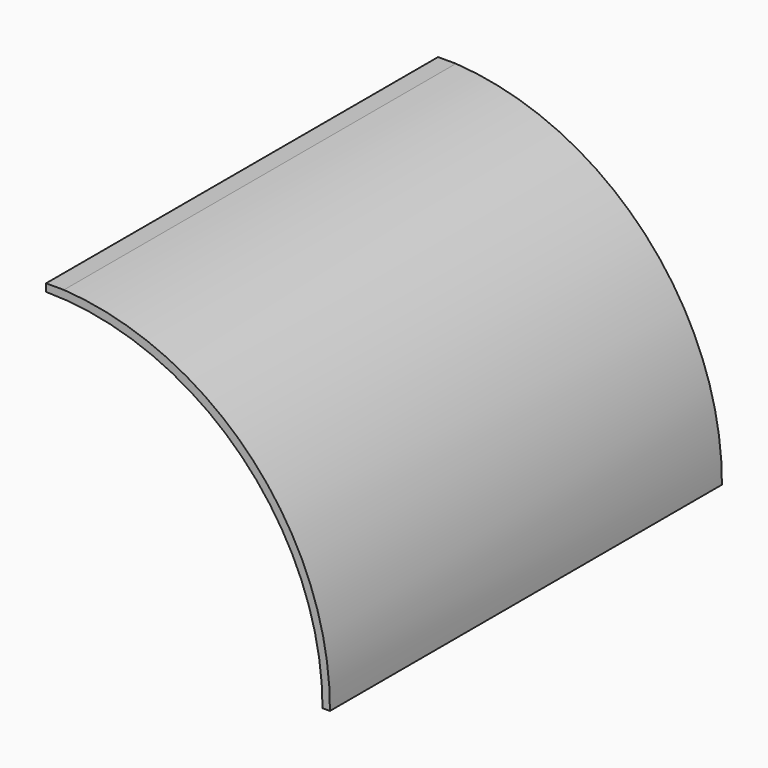
from build123d import *

# Parameters (mm, degrees)
F0_W     = 290
F0_H     = 290
F1_DEPTH = 500
F3_DEPTH = 795
F5_DEPTH = 770


with BuildPart() as f1:
    # F0 (on Front) → F1 (new body)
    with BuildSketch(Plane.XZ):
        with Locations((145, 145)):
            Rectangle(F0_W, F0_H)
    extrude(amount=F1_DEPTH)

    # F2 (on face) → F3 (cut)
    with BuildSketch(Plane.XZ):
        with BuildLine():
            ThreePointArc((18.21568, 290), (211.733128, 199.092972), (289.675921, 0))
            Line((289.675921, 0), (290, 0))
            Line((290, 0), (290, 290))
            Line((290, 290), (18.21568, 290))
        make_face()
    extrude(amount=F3_DEPTH, mode=Mode.SUBTRACT)

    # F4 (on face) → F5 (cut)
    with BuildSketch(Plane.XZ.offset(500)):
        with BuildLine():
            Line((0, 0), (282.123595, 0))
            ThreePointArc((282.123595, 0), (199.483979, 199.530675), (0, 282.282948))
            Line((0, 282.282948), (0, 0))
        make_face()
    extrude(amount=-F5_DEPTH, mode=Mode.SUBTRACT)


solid = f1.part
